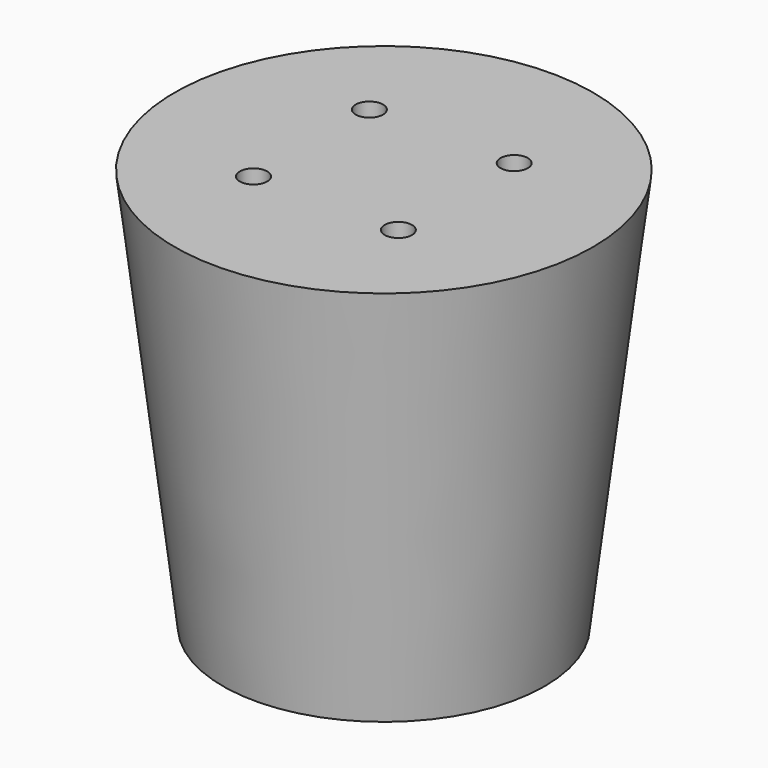
from build123d import *

# Parameters (mm, degrees)
CYLINDER001_R      = 0.85
CYLINDER001_DEPTH  = 50
POLARPATTERN_COUNT = 4


with BuildPart() as part:
    # Cone → Cone (revolve)
    with BuildSketch(Plane.XZ):
        Polygon((0, 0), (10, 0), (13, 25), (0, 25), align=None)
    revolve(axis=Axis((0, 0, 0), (0, 0, 1)))

    # Cylinder001 → Cylinder001 (cut)
    with BuildSketch(Plane(origin=(4.5, 4.5, 0), x_dir=(1, 0, 0), z_dir=(0, 0, 1))):
        Circle(CYLINDER001_R)
    cylinder001 = extrude(amount=CYLINDER001_DEPTH, mode=Mode.SUBTRACT)

    # PolarPattern: Cylinder001 ×4 about axis
    polarpattern_axis = Axis((0, 0, 0), (0, 0, 1))
    for i in range(1, POLARPATTERN_COUNT):
        add(cylinder001.rotate(polarpattern_axis, i * 360 / POLARPATTERN_COUNT), mode=Mode.SUBTRACT)


solid = part.part
